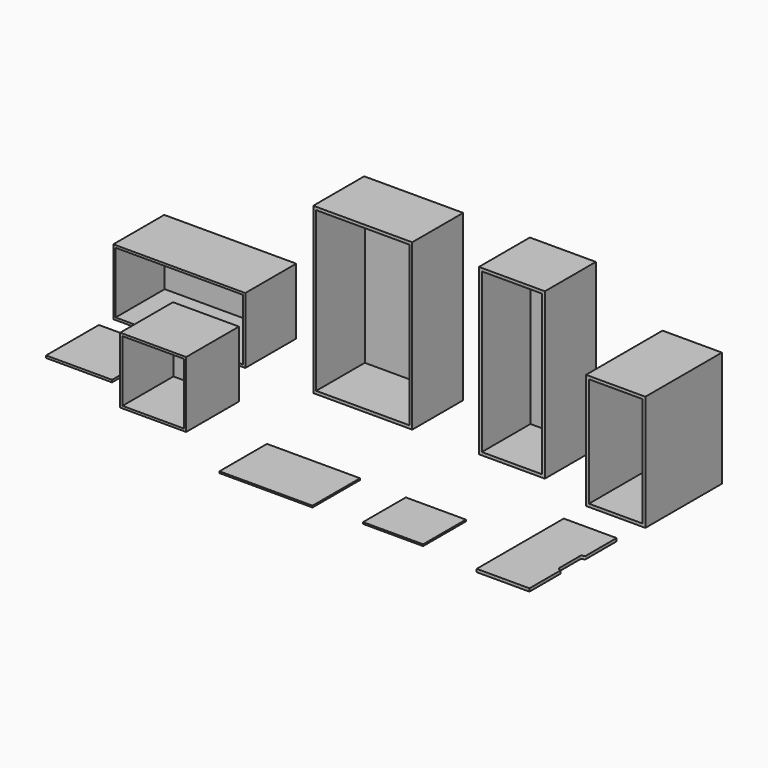
from build123d import *

# Parameters (mm, degrees)
F0_W     = 600
F0_H     = 386
F1_DEPTH = 1000
F0_W_2   = 400
F2_T     = -18
F2_2_T   = -18
F0_W_3   = 564
F0_H_2   = 360
F3_DEPTH = 10
F0_W_4   = 364
F0_H_3   = 324
F0_W_5   = 360
F0_H_4   = 580
F4_DEPTH = 700
F5_T     = -18
F6_DEPTH = 18
F0_H_5   = 400
F7_DEPTH = 14
F0_W_6   = 800
F8_DEPTH = 400
F9_T     = -14
F9_2_T   = -14


with BuildPart() as f1:
    # F0 (on Top) → F1 (new body)
    with BuildSketch(Plane.XY):
        with Locations((78.0625641346, -272.3132547994)):
            Rectangle(F0_W, F0_H)
    extrude(amount=F1_DEPTH)

    # F2
    f2_openings = [f1.faces().sort_by_distance(p)[0] for p in [
        (78.062564, -465.313255, 500),
    ]]
    offset(amount=F2_T, openings=f2_openings)


with BuildPart() as f1b:
    # F0 (on Top) → F1, piece 2 (new body)
    with BuildSketch(Plane.XY):
        with Locations((982.1294546127, -272.3132547994)):
            Rectangle(F0_W_2, F0_H)
    extrude(amount=F1_DEPTH)

    # F2#2
    f2_2_openings = [f1b.faces().sort_by_distance(p)[0] for p in [
        (982.129455, -465.313255, 500),
    ]]
    offset(amount=F2_2_T, openings=f2_2_openings)


with BuildPart() as f3:
    # F0 (on Top) → F3 (new body)
    with BuildSketch(Plane.XY):
        with Locations((225.9982175827, -1203.4499120712)):
            Rectangle(F0_W_3, F0_H_2)
    extrude(amount=F3_DEPTH)


with BuildPart() as f3b:
    # F0 (on Top) → F3, piece 2 (new body)
    with BuildSketch(Plane.XY):
        with Locations((982.1294546127, -1203.4499120712)):
            Rectangle(F0_W_4, F0_H_3)
    extrude(amount=F3_DEPTH)


with BuildPart() as f4:
    # F0 (on Top) → F4 (new body)
    with BuildSketch(Plane.XY):
        with Locations((1688.8535022736, -272.3132547994)):
            Rectangle(F0_W_5, F0_H_4)
    extrude(amount=F4_DEPTH)

    # F5
    f5_openings = [f4.faces().sort_by_distance(p)[0] for p in [
        (1688.853502, -562.313255, 350),
    ]]
    offset(amount=F5_T, openings=f5_openings)


with BuildPart() as f6:
    # F0 (on Top) → F6 (new body)
    with BuildSketch(Plane.XY):
        with BuildLine():
            Line((1848.8535022736, -986.0052967072), (1848.8535022736, -755.5774879456))
            Line((1848.8535022736, -755.5774879456), (1528.8535022736, -755.5774879456))
            Line((1528.8535022736, -755.5774879456), (1528.8535022736, -1415.5774879456))
            Line((1528.8535022736, -1415.5774879456), (1848.8535022736, -1415.5774879456))
            Line((1848.8535022736, -1415.5774879456), (1848.8535022736, -1185.149679184))
            ThreePointArc((1848.8535022736, -1185.149679184), (1845.9245700854, -1178.0786113721), (1838.8535022736, -1175.149679184))
            ThreePointArc((1838.8535022736, -1175.149679184), (1831.7824344617, -1172.2207469958), (1828.8535022736, -1165.149679184))
            Line((1828.8535022736, -1165.149679184), (1828.8535022736, -1006.0052967072))
            ThreePointArc((1828.8535022736, -1006.0052967072), (1831.7824344617, -998.9342288953), (1838.8535022736, -996.0052967072))
            ThreePointArc((1838.8535022736, -996.0052967072), (1845.9245700854, -993.076364519), (1848.8535022736, -986.0052967072))
        make_face()
    extrude(amount=F6_DEPTH)


with BuildPart() as f7:
    # F0 (on Top) → F7 (new body)
    with BuildSketch(Plane.XY):
        with Locations((-1233.95819664, -774.6752672195)):
            Rectangle(F0_W_2, F0_H_5)
    extrude(amount=F7_DEPTH)


with BuildPart() as f8:
    # F0 (on Top) → F8 (new body)
    with BuildSketch(Plane.XY):
        with Locations((-1033.95819664, -272.3132547994)):
            Rectangle(F0_W_6, F0_H)
    extrude(amount=F8_DEPTH)

    # F9
    f9_openings = [f8.faces().sort_by_distance(p)[0] for p in [
        (-1033.958197, -465.313255, 200),
    ]]
    offset(amount=F9_T, openings=f9_openings)


with BuildPart() as f8b:
    # F0 (on Top) → F8, piece 2 (new body)
    with BuildSketch(Plane.XY):
        with Locations((-642.5880610943, -952.4678468704)):
            Rectangle(F0_W_2, F0_H_5)
    extrude(amount=F8_DEPTH)

    # F9#2
    f9_2_openings = [f8b.faces().sort_by_distance(p)[0] for p in [
        (-642.588061, -1152.467847, 200),
    ]]
    offset(amount=F9_2_T, openings=f9_2_openings)


solid = Compound([f1.part, f1b.part, f3.part, f3b.part, f4.part, f6.part, f7.part, f8.part, f8b.part])
